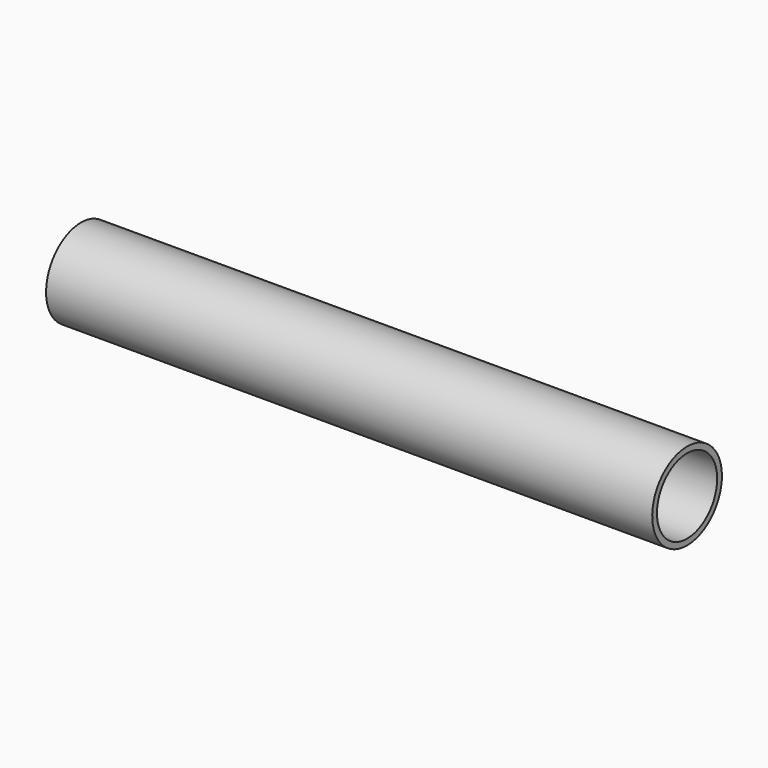
from build123d import *

# Parameters (mm, degrees)
CYLINDER001_R     = 9.5
CYLINDER001_DEPTH = 153
CYLINDER_R        = 11
CYLINDER_DEPTH    = 153
CUT_PITCH_ANGLE   = 90


with BuildPart() as int:
    # Cylinder001 → Cylinder001 (new body)
    with BuildSketch(Plane.XY.offset(2.5)):
        Circle(CYLINDER001_R)
    extrude(amount=CYLINDER001_DEPTH)


with BuildPart() as steeltube:
    # Cylinder → Cylinder (new body)
    with BuildSketch(Plane.XY.offset(2.5)):
        Circle(CYLINDER_R)
    extrude(amount=CYLINDER_DEPTH)

    # Cut: cut INT
    add(int.part, mode=Mode.SUBTRACT)


with BuildPart() as steeltube_1:
    # Cut pitch: moved
    add(steeltube.part.rotate(Axis((0, 0, 0), (0, 1, 0)), CUT_PITCH_ANGLE))


with BuildPart() as steeltube_2:
    # Cut placement: moved
    add(steeltube_1.part)


solid = steeltube_2.part
